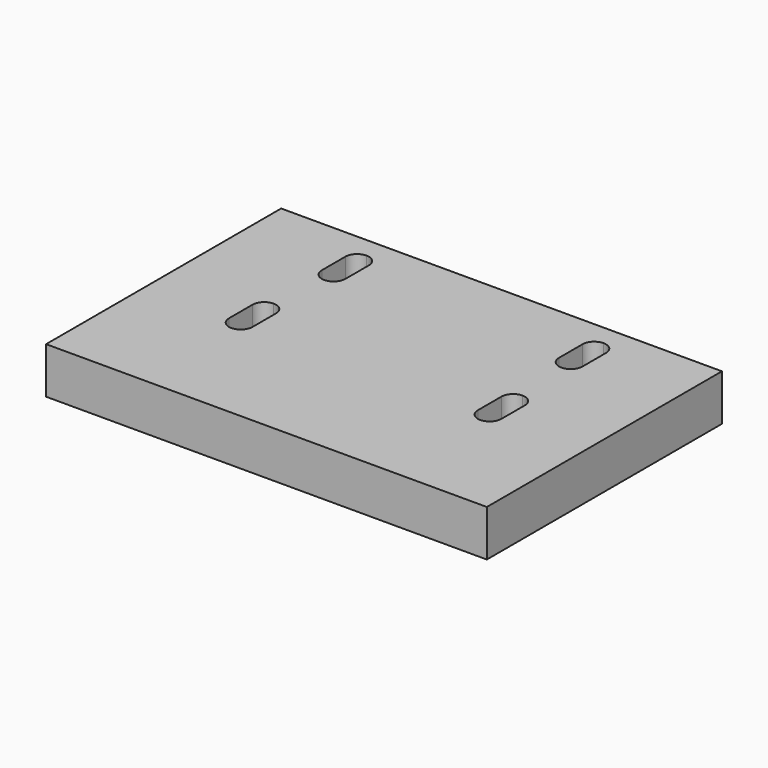
from build123d import *

# Parameters (mm, degrees)
F0_W     = 15
F0_H     = 10
F1_DEPTH = 1.5748
F3_DEPTH = 25


with BuildPart() as f1:
    # F0 (on Top) → F1 (new body)
    with BuildSketch(Plane.XY):
        with Locations((0, -5)):
            Rectangle(F0_W, F0_H)
    extrude(amount=F1_DEPTH)

    # F2 (on face) → F3 (cut)
    with BuildSketch(Plane.XY.offset(1.5748)):
        with BuildLine():
            ThreePointArc((-4.435, -2.1), (-4.3178427125, -2.3828427125), (-4.035, -2.5))
            ThreePointArc((-4.035, -2.5), (-3.7521572875, -2.3828427125), (-3.635, -2.1))
            Line((-3.635, -2.1), (-3.635, -1.1))
            ThreePointArc((-3.635, -1.1), (-3.7521572875, -0.8171572875), (-4.035, -0.7))
            ThreePointArc((-4.035, -0.7), (-4.3178427125, -0.8171572875), (-4.435, -1.1))
            Line((-4.435, -1.1), (-4.435, -2.1))
        make_face()
        with BuildLine():
            ThreePointArc((-4.635, -5.8), (-4.5178427125, -6.0828427125), (-4.235, -6.2))
            ThreePointArc((-4.235, -6.2), (-3.9521572875, -6.0828427125), (-3.835, -5.8))
            Line((-3.835, -5.8), (-3.835, -4.8))
            ThreePointArc((-3.835, -4.8), (-3.9521572875, -4.5171572875), (-4.235, -4.4))
            ThreePointArc((-4.235, -4.4), (-4.5178427125, -4.5171572875), (-4.635, -4.8))
            Line((-4.635, -4.8), (-4.635, -5.8))
        make_face()
        with BuildLine():
            ThreePointArc((3.835, -5.8), (3.9521572875, -6.0828427125), (4.235, -6.2))
            ThreePointArc((4.235, -6.2), (4.5178427125, -6.0828427125), (4.635, -5.8))
            Line((4.635, -5.8), (4.635, -4.8))
            ThreePointArc((4.635, -4.8), (4.5178427125, -4.5171572875), (4.235, -4.4))
            ThreePointArc((4.235, -4.4), (3.9521572875, -4.5171572875), (3.835, -4.8))
            Line((3.835, -4.8), (3.835, -5.8))
        make_face()
        with BuildLine():
            ThreePointArc((4.035, -2.5), (4.3178427125, -2.3828427125), (4.435, -2.1))
            Line((4.435, -2.1), (4.435, -1.1))
            ThreePointArc((4.435, -1.1), (4.3178427125, -0.8171572875), (4.035, -0.7))
            ThreePointArc((4.035, -0.7), (3.7521572875, -0.8171572875), (3.635, -1.1))
            Line((3.635, -1.1), (3.635, -2.1))
            ThreePointArc((3.635, -2.1), (3.7521572875, -2.3828427125), (4.035, -2.5))
        make_face()
    extrude(amount=-F3_DEPTH, mode=Mode.SUBTRACT)


solid = f1.part
